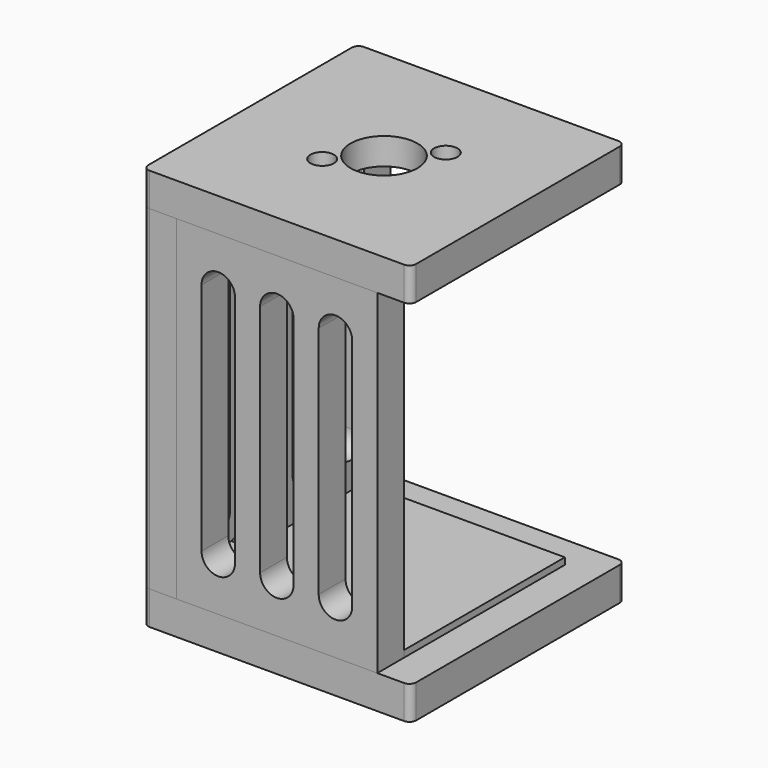
from build123d import *

# Parameters (mm, degrees)
BOX004_W                  = 60
BOX004_H                  = 60
BOX004_DEPTH              = 2
BOX_W                     = 80
BOX_H                     = 80
BOX_DEPTH                 = 10
FILLET005_R               = 2
CYLINDER002_R             = 5
CYLINDER002_DEPTH         = 10
CYLINDER003_R             = 5
CYLINDER003_DEPTH         = 10
BOX008_W                  = 10
BOX008_H                  = 10
BOX008_DEPTH              = 70
CYLINDER004_R             = 5
CYLINDER004_DEPTH         = 10
CYLINDER005_R             = 5
CYLINDER005_DEPTH         = 10
BOX009_W                  = 10
BOX009_H                  = 10
BOX009_DEPTH              = 70
CYLINDER_R                = 5
CYLINDER_DEPTH            = 10
CYLINDER001_R             = 5
CYLINDER001_DEPTH         = 10
BOX007_W                  = 10
BOX007_H                  = 10
BOX007_DEPTH              = 70
BOX001_W                  = 60
BOX001_H                  = 10
BOX001_DEPTH              = 100
CYLINDER014_W             = 7.5
CYLINDER014_H             = 10
CYLINDER014_ANGLE         = 180
CYLINDER007_R             = 5
CYLINDER007_DEPTH         = 10
CYLINDER006_R             = 5
CYLINDER006_DEPTH         = 10
BOX010_W                  = 10
BOX010_H                  = 10
BOX010_DEPTH              = 70
FUSION003_PLACEMENT_ANGLE = 90
CYLINDER008_R             = 5
CYLINDER008_DEPTH         = 10
CYLINDER009_R             = 5
CYLINDER009_DEPTH         = 10
BOX011_W                  = 10
BOX011_H                  = 10
BOX011_DEPTH              = 70
FUSION004_PLACEMENT_ANGLE = 90
CYLINDER010_R             = 5
CYLINDER010_DEPTH         = 10
CYLINDER011_R             = 5
CYLINDER011_DEPTH         = 10
BOX012_W                  = 10
BOX012_H                  = 10
BOX012_DEPTH              = 70
FUSION005_PLACEMENT_ANGLE = 90
CYLINDER012_R             = 5
CYLINDER012_DEPTH         = 10
CYLINDER013_R             = 5
CYLINDER013_DEPTH         = 10
BOX013_W                  = 10
BOX013_H                  = 10
BOX013_DEPTH              = 70
FUSION006_PLACEMENT_ANGLE = 90
BOX002_W                  = 10
BOX002_H                  = 80
BOX002_DEPTH              = 100
FILLET001_R               = 2
FILLET011_R               = 2
CYLINDER033_R             = 10
CYLINDER033_DEPTH         = 20
CYLINDER031_R             = 3.5
CYLINDER031_DEPTH         = 4
CYLINDER032_R             = 2
CYLINDER032_DEPTH         = 20
CYLINDER030_R             = 3.5
CYLINDER030_DEPTH         = 4
CYLINDER029_R             = 2
CYLINDER029_DEPTH         = 20
FUSION014_PLACEMENT_ANGLE = 45
BOX020_W                  = 60
BOX020_H                  = 60
BOX020_DEPTH              = 8
BOX019_W                  = 50
BOX019_H                  = 50
BOX019_DEPTH              = 4
CYLINDER028_R             = 10
CYLINDER028_DEPTH         = 30
CYLINDER027_R             = 2
CYLINDER027_DEPTH         = 30
CYLINDER026_R             = 2
CYLINDER026_DEPTH         = 30
CYLINDER025_R             = 3.5
CYLINDER025_DEPTH         = 4
BOX005_W                  = 60
BOX005_H                  = 60
BOX005_DEPTH              = 2
CYLINDER023_R             = 3.5
CYLINDER023_DEPTH         = 4
CYLINDER024_R             = 2
CYLINDER024_DEPTH         = 20
CYLINDER022_R             = 2
CYLINDER022_DEPTH         = 20
CYLINDER021_R             = 10
CYLINDER021_DEPTH         = 15
BOX018_W                  = 60
BOX018_H                  = 60
BOX018_DEPTH              = 2
BOX017_W                  = 80
BOX017_H                  = 80
BOX017_DEPTH              = 10
FILLET006_R               = 2
FILLET007_R               = 2
FILLET008_R               = 2
FILLET009_R               = 2


with BuildPart() as cubo004:
    # Box004 → Box004 (new body)
    with BuildSketch(Plane(origin=(10, 10, 10), x_dir=(1, 0, 0), z_dir=(0, 0, 1))):
        with Locations((30, 30)):
            Rectangle(BOX004_W, BOX004_H)
    extrude(amount=BOX004_DEPTH)


with BuildPart() as fillet005:
    # Box → Box (new body)
    with BuildSketch(Plane.XY):
        with Locations((40, 40)):
            Rectangle(BOX_W, BOX_H)
    extrude(amount=BOX_DEPTH)

    # Fusion008: union Cubo004
    add(cubo004.part)

    # Fillet005
    fillet005_edges = [fillet005.edges().sort_by_distance(p)[0] for p in [
        (0, 0, 5),
        (0, 80, 5),
        (80, 0, 5),
        (80, 80, 5),
    ]]
    fillet(fillet005_edges, radius=FILLET005_R)


with BuildPart() as cilindro002:
    # Cylinder002 → Cylinder002 (new body)
    with BuildSketch(Plane(origin=(15, 10, 25), x_dir=(1, 0, 0), z_dir=(0, -1, 0))):
        Circle(CYLINDER002_R)
    extrude(amount=CYLINDER002_DEPTH)


with BuildPart() as cilindro003:
    # Cylinder003 → Cylinder003 (new body)
    with BuildSketch(Plane(origin=(15, 10, 95), x_dir=(1, 0, 0), z_dir=(0, -1, 0))):
        Circle(CYLINDER003_R)
    extrude(amount=CYLINDER003_DEPTH)


with BuildPart() as fusion001:
    # Box008 → Box008 (new body)
    with BuildSketch(Plane(origin=(10, 0, 25), x_dir=(1, 0, 0), z_dir=(0, 0, 1))):
        with Locations((5, 5)):
            Rectangle(BOX008_W, BOX008_H)
    extrude(amount=BOX008_DEPTH)

    # Fusion001: union Cilindro002, Cilindro003
    add(cilindro002.part)
    add(cilindro003.part)


with BuildPart() as fusion001_1:
    # Fusion001 placement: moved
    add(fusion001.part.moved(Location((25, 0, 0))))


with BuildPart() as cilindro004:
    # Cylinder004 → Cylinder004 (new body)
    with BuildSketch(Plane(origin=(15, 10, 25), x_dir=(1, 0, 0), z_dir=(0, -1, 0))):
        Circle(CYLINDER004_R)
    extrude(amount=CYLINDER004_DEPTH)


with BuildPart() as cilindro005:
    # Cylinder005 → Cylinder005 (new body)
    with BuildSketch(Plane(origin=(15, 10, 95), x_dir=(1, 0, 0), z_dir=(0, -1, 0))):
        Circle(CYLINDER005_R)
    extrude(amount=CYLINDER005_DEPTH)


with BuildPart() as fusion002:
    # Box009 → Box009 (new body)
    with BuildSketch(Plane(origin=(10, 0, 25), x_dir=(1, 0, 0), z_dir=(0, 0, 1))):
        with Locations((5, 5)):
            Rectangle(BOX009_W, BOX009_H)
    extrude(amount=BOX009_DEPTH)

    # Fusion002: union Cilindro004, Cilindro005
    add(cilindro004.part)
    add(cilindro005.part)


with BuildPart() as fusion002_1:
    # Fusion002 placement: moved
    add(fusion002.part.moved(Location((42.5, 0, 0))))


with BuildPart() as cilindro:
    # Cylinder → Cylinder (new body)
    with BuildSketch(Plane(origin=(15, 10, 25), x_dir=(1, 0, 0), z_dir=(0, -1, 0))):
        Circle(CYLINDER_R)
    extrude(amount=CYLINDER_DEPTH)


with BuildPart() as cilindro001:
    # Cylinder001 → Cylinder001 (new body)
    with BuildSketch(Plane(origin=(15, 10, 95), x_dir=(1, 0, 0), z_dir=(0, -1, 0))):
        Circle(CYLINDER001_R)
    extrude(amount=CYLINDER001_DEPTH)


with BuildPart() as fusion:
    # Box007 → Box007 (new body)
    with BuildSketch(Plane(origin=(10, 0, 25), x_dir=(1, 0, 0), z_dir=(0, 0, 1))):
        with Locations((5, 5)):
            Rectangle(BOX007_W, BOX007_H)
    extrude(amount=BOX007_DEPTH)

    # Fusion: union Cilindro, Cilindro001
    add(cilindro.part)
    add(cilindro001.part)


with BuildPart() as fusion_1:
    # Fusion placement: moved
    add(fusion.part.moved(Location((7.5, 0, 0))))


with BuildPart() as cut019:
    # Box001 → Box001 (new body)
    with BuildSketch(Plane(origin=(10, 0, 10), x_dir=(1, 0, 0), z_dir=(0, 0, 1))):
        with Locations((30, 5)):
            Rectangle(BOX001_W, BOX001_H)
    extrude(amount=BOX001_DEPTH)

    # Cut001: cut Fusion
    add(fusion_1.part, mode=Mode.SUBTRACT)

    # Cut018: cut Fusion002
    add(fusion002_1.part, mode=Mode.SUBTRACT)

    # Cut019: cut Fusion001
    add(fusion001_1.part, mode=Mode.SUBTRACT)


with BuildPart() as cilindro014:
    # Cylinder014 → Cylinder014 (revolve)
    with BuildSketch(Plane(origin=(0, 23.33, 10), x_dir=(0, 1, 0), z_dir=(0, 0, -1))):
        with Locations((3.75, 5)):
            Rectangle(CYLINDER014_W, CYLINDER014_H)
    revolve(axis=Axis((0, 23.33, 10), (1, 0, 0)), revolution_arc=CYLINDER014_ANGLE)


with BuildPart() as cilindro007:
    # Cylinder007 → Cylinder007 (new body)
    with BuildSketch(Plane(origin=(15, 10, 25), x_dir=(1, 0, 0), z_dir=(0, -1, 0))):
        Circle(CYLINDER007_R)
    extrude(amount=CYLINDER007_DEPTH)


with BuildPart() as cilindro006:
    # Cylinder006 → Cylinder006 (new body)
    with BuildSketch(Plane(origin=(15, 10, 95), x_dir=(1, 0, 0), z_dir=(0, -1, 0))):
        Circle(CYLINDER006_R)
    extrude(amount=CYLINDER006_DEPTH)


with BuildPart() as fusion003:
    # Box010 → Box010 (new body)
    with BuildSketch(Plane(origin=(10, 0, 25), x_dir=(1, 0, 0), z_dir=(0, 0, 1))):
        with Locations((5, 5)):
            Rectangle(BOX010_W, BOX010_H)
    extrude(amount=BOX010_DEPTH)

    # Fusion003: union Cilindro007, Cilindro006
    add(cilindro007.part)
    add(cilindro006.part)


with BuildPart() as fusion003_1:
    # Fusion003 placement: moved
    add(fusion003.part.moved(Location((10, 0, 0))).rotate(Axis((10, 0, 0), (0, 0, 1)), FUSION003_PLACEMENT_ANGLE))


with BuildPart() as cilindro008:
    # Cylinder008 → Cylinder008 (new body)
    with BuildSketch(Plane(origin=(15, 10, 25), x_dir=(1, 0, 0), z_dir=(0, -1, 0))):
        Circle(CYLINDER008_R)
    extrude(amount=CYLINDER008_DEPTH)


with BuildPart() as cilindro009:
    # Cylinder009 → Cylinder009 (new body)
    with BuildSketch(Plane(origin=(15, 10, 95), x_dir=(1, 0, 0), z_dir=(0, -1, 0))):
        Circle(CYLINDER009_R)
    extrude(amount=CYLINDER009_DEPTH)


with BuildPart() as fusion004:
    # Box011 → Box011 (new body)
    with BuildSketch(Plane(origin=(10, 0, 25), x_dir=(1, 0, 0), z_dir=(0, 0, 1))):
        with Locations((5, 5)):
            Rectangle(BOX011_W, BOX011_H)
    extrude(amount=BOX011_DEPTH)

    # Fusion004: union Cilindro008, Cilindro009
    add(cilindro008.part)
    add(cilindro009.part)


with BuildPart() as fusion004_1:
    # Fusion004 placement: moved
    add(fusion004.part.moved(Location((10, 16.66, 0))).rotate(Axis((10, 16.66, 0), (0, 0, 1)), FUSION004_PLACEMENT_ANGLE))


with BuildPart() as cilindro010:
    # Cylinder010 → Cylinder010 (new body)
    with BuildSketch(Plane(origin=(15, 10, 25), x_dir=(1, 0, 0), z_dir=(0, -1, 0))):
        Circle(CYLINDER010_R)
    extrude(amount=CYLINDER010_DEPTH)


with BuildPart() as cilindro011:
    # Cylinder011 → Cylinder011 (new body)
    with BuildSketch(Plane(origin=(15, 10, 95), x_dir=(1, 0, 0), z_dir=(0, -1, 0))):
        Circle(CYLINDER011_R)
    extrude(amount=CYLINDER011_DEPTH)


with BuildPart() as fusion005:
    # Box012 → Box012 (new body)
    with BuildSketch(Plane(origin=(10, 0, 25), x_dir=(1, 0, 0), z_dir=(0, 0, 1))):
        with Locations((5, 5)):
            Rectangle(BOX012_W, BOX012_H)
    extrude(amount=BOX012_DEPTH)

    # Fusion005: union Cilindro010, Cilindro011
    add(cilindro010.part)
    add(cilindro011.part)


with BuildPart() as fusion005_1:
    # Fusion005 placement: moved
    add(fusion005.part.moved(Location((10, 33.33, 0))).rotate(Axis((10, 33.33, 0), (0, 0, 1)), FUSION005_PLACEMENT_ANGLE))


with BuildPart() as cilindro012:
    # Cylinder012 → Cylinder012 (new body)
    with BuildSketch(Plane(origin=(15, 10, 25), x_dir=(1, 0, 0), z_dir=(0, -1, 0))):
        Circle(CYLINDER012_R)
    extrude(amount=CYLINDER012_DEPTH)


with BuildPart() as cilindro013:
    # Cylinder013 → Cylinder013 (new body)
    with BuildSketch(Plane(origin=(15, 10, 95), x_dir=(1, 0, 0), z_dir=(0, -1, 0))):
        Circle(CYLINDER013_R)
    extrude(amount=CYLINDER013_DEPTH)


with BuildPart() as fusion006:
    # Box013 → Box013 (new body)
    with BuildSketch(Plane(origin=(10, 0, 25), x_dir=(1, 0, 0), z_dir=(0, 0, 1))):
        with Locations((5, 5)):
            Rectangle(BOX013_W, BOX013_H)
    extrude(amount=BOX013_DEPTH)

    # Fusion006: union Cilindro012, Cilindro013
    add(cilindro012.part)
    add(cilindro013.part)


with BuildPart() as fusion006_1:
    # Fusion006 placement: moved
    add(fusion006.part.moved(Location((10, 50, 0))).rotate(Axis((10, 50, 0), (0, 0, 1)), FUSION006_PLACEMENT_ANGLE))


with BuildPart() as fillet011:
    # Box002 → Box002 (new body)
    with BuildSketch(Plane.XY.offset(10)):
        with Locations((5, 40)):
            Rectangle(BOX002_W, BOX002_H)
    extrude(amount=BOX002_DEPTH)

    # Cut: cut Fusion006
    add(fusion006_1.part, mode=Mode.SUBTRACT)

    # Cut004: cut Fusion005
    add(fusion005_1.part, mode=Mode.SUBTRACT)

    # Cut005: cut Fusion004
    add(fusion004_1.part, mode=Mode.SUBTRACT)

    # Cut006: cut Fusion003
    add(fusion003_1.part, mode=Mode.SUBTRACT)

    # Cut007: cut Cilindro014
    add(cilindro014.part, mode=Mode.SUBTRACT)

    # Fillet001
    fillet001_edges = [fillet011.edges().sort_by_distance(p)[0] for p in [
        (0, 0, 60),
    ]]
    fillet(fillet001_edges, radius=FILLET001_R)

    # Fillet011
    fillet011_edges = [fillet011.edges().sort_by_distance(p)[0] for p in [
        (0, 80, 60),
    ]]
    fillet(fillet011_edges, radius=FILLET011_R)


with BuildPart() as cilindro033:
    # Cylinder033 → Cylinder033 (new body)
    with BuildSketch(Plane(origin=(40, 40, 105), x_dir=(1, 0, 0), z_dir=(0, 0, 1))):
        Circle(CYLINDER033_R)
    extrude(amount=CYLINDER033_DEPTH)


with BuildPart() as cilindro031:
    # Cylinder031 → Cylinder031 (new body)
    with BuildSketch(Plane(origin=(54.5, 40, 116), x_dir=(1, 0, 0), z_dir=(0, 0, 1))):
        Circle(CYLINDER031_R)
    extrude(amount=CYLINDER031_DEPTH)


with BuildPart() as fusion013:
    # Cylinder032 → Cylinder032 (new body)
    with BuildSketch(Plane(origin=(54.5, 40, 112), x_dir=(1, 0, 0), z_dir=(0, 0, 1))):
        Circle(CYLINDER032_R)
    extrude(amount=CYLINDER032_DEPTH)

    # Fusion013: union Cilindro031
    add(cilindro031.part)


with BuildPart() as fusion013_1:
    # Fusion013 placement: moved
    add(fusion013.part.moved(Location((-29, 0, 0))))


with BuildPart() as cilindro030:
    # Cylinder030 → Cylinder030 (new body)
    with BuildSketch(Plane(origin=(54.5, 40, 116), x_dir=(1, 0, 0), z_dir=(0, 0, 1))):
        Circle(CYLINDER030_R)
    extrude(amount=CYLINDER030_DEPTH)


with BuildPart() as fusion014:
    # Cylinder029 → Cylinder029 (new body)
    with BuildSketch(Plane(origin=(54.5, 40, 112), x_dir=(1, 0, 0), z_dir=(0, 0, 1))):
        Circle(CYLINDER029_R)
    extrude(amount=CYLINDER029_DEPTH)

    # Fusion012: union Cilindro030
    add(cilindro030.part)

    # Fusion014: union Fusion013
    add(fusion013_1.part)


with BuildPart() as fusion014_1:
    # Fusion014 placement: moved
    add(fusion014.part.moved(Location((40, -16.568542, 0))).rotate(Axis((40, -16.568542, 0), (0, 0, 1)), FUSION014_PLACEMENT_ANGLE))


with BuildPart() as cubo020:
    # Box020 → Box020 (new body)
    with BuildSketch(Plane(origin=(10, 10, 112), x_dir=(1, 0, 0), z_dir=(0, 0, 1))):
        with Locations((30, 30)):
            Rectangle(BOX020_W, BOX020_H)
    extrude(amount=BOX020_DEPTH)


with BuildPart() as cubo019:
    # Box019 → Box019 (new body)
    with BuildSketch(Plane(origin=(15, 15, 108), x_dir=(1, 0, 0), z_dir=(0, 0, 1))):
        with Locations((25, 25)):
            Rectangle(BOX019_W, BOX019_H)
    extrude(amount=BOX019_DEPTH)


with BuildPart() as cilindro028:
    # Cylinder028 → Cylinder028 (new body)
    with BuildSketch(Plane(origin=(40, 40, 95), x_dir=(1, 0, 0), z_dir=(0, 0, 1))):
        Circle(CYLINDER028_R)
    extrude(amount=CYLINDER028_DEPTH)


with BuildPart() as cilindro027:
    # Cylinder027 → Cylinder027 (new body)
    with BuildSketch(Plane(origin=(25.5, 25.5, 95), x_dir=(1, 0, 0), z_dir=(0, 0, 1))):
        Circle(CYLINDER027_R)
    extrude(amount=CYLINDER027_DEPTH)


with BuildPart() as cilindro026:
    # Cylinder026 → Cylinder026 (new body)
    with BuildSketch(Plane(origin=(54.5, 54.5, 95), x_dir=(1, 0, 0), z_dir=(0, 0, 1))):
        Circle(CYLINDER026_R)
    extrude(amount=CYLINDER026_DEPTH)


with BuildPart() as cilindro025:
    # Cylinder025 → Cylinder025 (new body)
    with BuildSketch(Plane(origin=(54.5, 54.5, 116), x_dir=(1, 0, 0), z_dir=(0, 0, 1))):
        Circle(CYLINDER025_R)
    extrude(amount=CYLINDER025_DEPTH)


with BuildPart() as cubo005:
    # Box005 → Box005 (new body)
    with BuildSketch(Plane(origin=(10, 10, 108), x_dir=(1, 0, 0), z_dir=(0, 0, 1))):
        with Locations((30, 30)):
            Rectangle(BOX005_W, BOX005_H)
    extrude(amount=BOX005_DEPTH)


with BuildPart() as cilindro023:
    # Cylinder023 → Cylinder023 (new body)
    with BuildSketch(Plane(origin=(25.5, 25.5, 116), x_dir=(1, 0, 0), z_dir=(0, 0, 1))):
        Circle(CYLINDER023_R)
    extrude(amount=CYLINDER023_DEPTH)


with BuildPart() as cilindro024:
    # Cylinder024 → Cylinder024 (new body)
    with BuildSketch(Plane(origin=(25.5, 25.5, 105), x_dir=(1, 0, 0), z_dir=(0, 0, 1))):
        Circle(CYLINDER024_R)
    extrude(amount=CYLINDER024_DEPTH)


with BuildPart() as cilindro022:
    # Cylinder022 → Cylinder022 (new body)
    with BuildSketch(Plane(origin=(54.5, 54.5, 105), x_dir=(1, 0, 0), z_dir=(0, 0, 1))):
        Circle(CYLINDER022_R)
    extrude(amount=CYLINDER022_DEPTH)


with BuildPart() as cilindro021:
    # Cylinder021 → Cylinder021 (new body)
    with BuildSketch(Plane(origin=(40, 40, 106), x_dir=(1, 0, 0), z_dir=(0, 0, 1))):
        Circle(CYLINDER021_R)
    extrude(amount=CYLINDER021_DEPTH)


with BuildPart() as cubo018:
    # Box018 → Box018 (new body)
    with BuildSketch(Plane(origin=(10, 10, 108), x_dir=(1, 0, 0), z_dir=(0, 0, 1))):
        with Locations((30, 30)):
            Rectangle(BOX018_W, BOX018_H)
    extrude(amount=BOX018_DEPTH)


with BuildPart() as cut026:
    # Box017 → Box017 (new body)
    with BuildSketch(Plane.XY.offset(110)):
        with Locations((40, 40)):
            Rectangle(BOX017_W, BOX017_H)
    extrude(amount=BOX017_DEPTH)

    # Fusion009: union Cubo018
    add(cubo018.part)

    # Cut016: cut Cilindro021
    add(cilindro021.part, mode=Mode.SUBTRACT)

    # Cut014: cut Cilindro022
    add(cilindro022.part, mode=Mode.SUBTRACT)

    # Cut013: cut Cilindro024
    add(cilindro024.part, mode=Mode.SUBTRACT)

    # Cut017: cut Cilindro023
    add(cilindro023.part, mode=Mode.SUBTRACT)

    # Fusion010: union Cubo005
    add(cubo005.part)

    # Cut020: cut Cilindro025
    add(cilindro025.part, mode=Mode.SUBTRACT)

    # Cut021: cut Cilindro026
    add(cilindro026.part, mode=Mode.SUBTRACT)

    # Cut022: cut Cilindro027
    add(cilindro027.part, mode=Mode.SUBTRACT)

    # Cut023: cut Cilindro028
    add(cilindro028.part, mode=Mode.SUBTRACT)

    # Fillet006
    fillet006_edges = [cut026.edges().sort_by_distance(p)[0] for p in [
        (0, 0, 115),
    ]]
    fillet(fillet006_edges, radius=FILLET006_R)

    # Fillet007
    fillet007_edges = [cut026.edges().sort_by_distance(p)[0] for p in [
        (80, 0, 115),
    ]]
    fillet(fillet007_edges, radius=FILLET007_R)

    # Fillet008
    fillet008_edges = [cut026.edges().sort_by_distance(p)[0] for p in [
        (80, 80, 115),
    ]]
    fillet(fillet008_edges, radius=FILLET008_R)

    # Fillet009
    fillet009_edges = [cut026.edges().sort_by_distance(p)[0] for p in [
        (0, 80, 115),
    ]]
    fillet(fillet009_edges, radius=FILLET009_R)

    # Cut024: cut Cubo019
    add(cubo019.part, mode=Mode.SUBTRACT)

    # Fusion011: union Cubo020
    add(cubo020.part)

    # Cut025: cut Fusion014
    add(fusion014_1.part, mode=Mode.SUBTRACT)

    # Cut026: cut Cilindro033
    add(cilindro033.part, mode=Mode.SUBTRACT)


solid = Compound([fillet005.part, cut019.part, fillet011.part, cut026.part])
